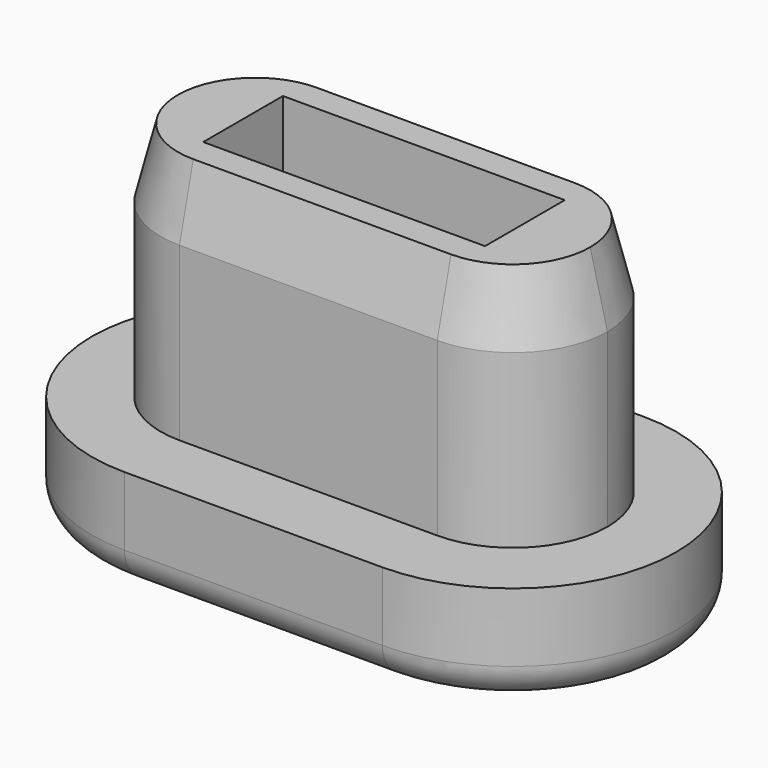
from build123d import *

# Parameters (mm, degrees)
F1_DEPTH = 10
F2_SIZE2 = 0.5
F2_SIZE  = 2
F4_DEPTH = 3
F5_R     = 1


with BuildPart() as f1:
    # F0 (on Top) → F1 (new body)
    with BuildSketch(Plane.XY):
        with BuildLine():
            Line((3.75, 2.75), (-3.75, 2.75))
            ThreePointArc((-3.75, 2.75), (-2.4130258043, 2.4031229681), (-1.4133357109, 1.45))
            Line((-1.4133357109, 1.45), (1.4133357109, 1.45))
            ThreePointArc((1.4133357109, 1.45), (2.4130258043, 2.4031229681), (3.75, 2.75))
        make_face()
        with BuildLine():
            ThreePointArc((-1.4133357109, 1.45), (-2.4130258043, 2.4031229681), (-3.75, 2.75))
            ThreePointArc((-3.75, 2.75), (-6.5, 0), (-3.75, -2.75))
            ThreePointArc((-3.75, -2.75), (-2.4130258043, -2.4031229681), (-1.4133357109, -1.45))
            Line((-1.4133357109, -1.45), (-4.1, -1.45))
            Line((-4.1, -1.45), (-4.1, 1.45))
            Line((-4.1, 1.45), (-1.4133357109, 1.45))
        make_face()
        with BuildLine():
            ThreePointArc((6.5, 0), (5.6945436483, 1.9445436483), (3.75, 2.75))
            ThreePointArc((3.75, 2.75), (2.4130258043, 2.4031229681), (1.4133357109, 1.45))
            Line((1.4133357109, 1.45), (4.1, 1.45))
            Line((4.1, 1.45), (4.1, -1.45))
            Line((4.1, -1.45), (1.4133357109, -1.45))
            ThreePointArc((1.4133357109, -1.45), (2.4130258043, -2.4031229681), (3.75, -2.75))
            ThreePointArc((3.75, -2.75), (5.6945436483, -1.9445436483), (6.5, 0))
        make_face()
        with BuildLine():
            ThreePointArc((-1.4133357109, -1.45), (-2.4130258043, -2.4031229681), (-3.75, -2.75))
            Line((-3.75, -2.75), (3.75, -2.75))
            ThreePointArc((3.75, -2.75), (2.4130258043, -2.4031229681), (1.4133357109, -1.45))
            Line((1.4133357109, -1.45), (-1.4133357109, -1.45))
        make_face()
    extrude(amount=F1_DEPTH)

    # F2
    f2_edges = [f1.edges().sort_by_distance(p)[0] for p in [
        (0, -2.75, 10),
    ]]
    f2_side = f1.faces().sort_by_distance((0, -2.75, 5))[0]
    chamfer(f2_edges, length=F2_SIZE, length2=F2_SIZE2, reference=f2_side)

    # F3 (on face) → F4 (join)
    with BuildSketch(Plane(origin=(0, 0, 0), x_dir=(1, 0, 0), z_dir=(0, 0, -1))):
        with BuildLine():
            ThreePointArc((3.75, -4.75), (8.5, 0), (3.75, 4.75))
            Line((3.75, 4.75), (-3.75, 4.75))
            ThreePointArc((-3.75, 4.75), (-8.5, 0), (-3.75, -4.75))
            Line((-3.75, -4.75), (3.75, -4.75))
        make_face()
        with BuildLine():
            Line((3.75, -2.75), (-3.75, -2.75))
            ThreePointArc((-3.75, -2.75), (-6.5, 0), (-3.75, 2.75))
            Line((-3.75, 2.75), (3.75, 2.75))
            ThreePointArc((3.75, 2.75), (6.5, 0), (3.75, -2.75))
        make_face(mode=Mode.SUBTRACT)
    extrude(amount=-F4_DEPTH)

    # F5
    f5_edges = [f1.edges().sort_by_distance(p)[0] for p in [
        (0, -4.75, 0),
        (8.5, 0, 0),
        (0, 4.75, 0),
    ]]
    fillet(f5_edges, radius=F5_R)


solid = f1.part
